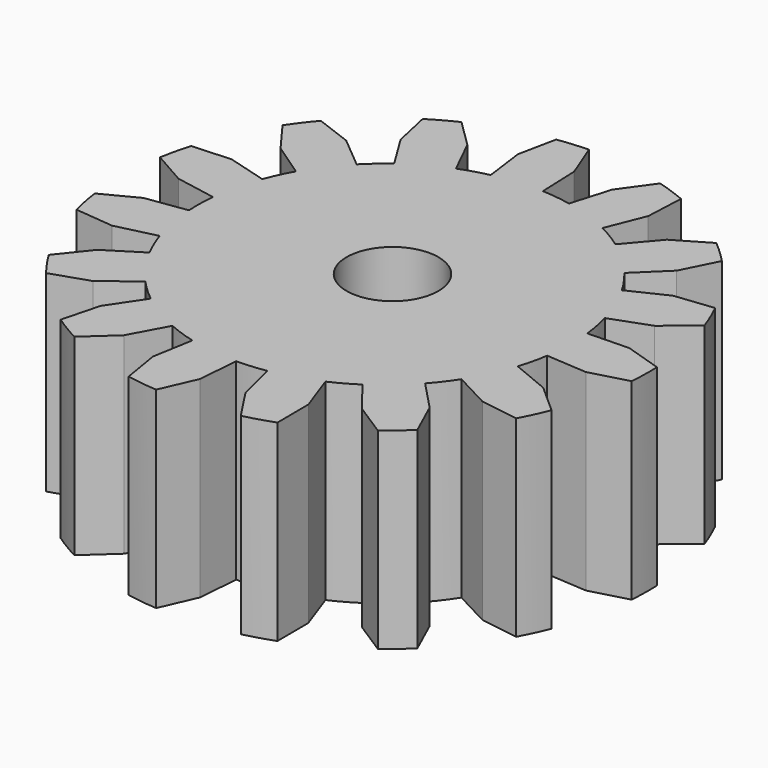
from build123d import *

# Parameters (mm, degrees)
F0_R     = 1.671135
F1_DEPTH = 7


with BuildPart() as f1:
    # F0 (on Top) → F1 (new body)
    with BuildSketch(Plane.XY):
        with BuildLine():
            ThreePointArc((5.710763, 3.295388), (5.423242, 3.744527), (5.101476, 4.169805))
            Line((5.101476, 4.169805), (6.17403, 5.210492))
            Line((6.17403, 5.210492), (6.80854, 6.475035))
            ThreePointArc((6.80854, 6.475035), (6.41041, 6.87043), (5.989907, 7.241943))
            Line((5.989907, 7.241943), (4.769408, 6.526365))
            Line((4.769408, 6.526365), (3.800837, 5.388265))
            ThreePointArc((3.800837, 5.388265), (3.355492, 5.681629), (2.888568, 5.939266))
            Line((2.888568, 5.939266), (3.445109, 7.326228))
            Line((3.445109, 7.326228), (3.510427, 8.739523))
            ThreePointArc((3.510427, 8.739523), (2.985895, 8.938801), (2.450639, 9.107161))
            Line((2.450639, 9.107161), (1.626709, 7.957026))
            Line((1.626709, 7.957026), (1.204783, 6.523367))
            ThreePointArc((1.204783, 6.523367), (0.678618, 6.61023), (0.147272, 6.655678))
            Line((0.147272, 6.655678), (0.091568, 8.149096))
            Line((0.091568, 8.149096), (-0.4236, 9.466773))
            ThreePointArc((-0.4236, 9.466773), (-0.983837, 9.435476), (-1.541296, 9.371572))
            Line((-1.541296, 9.371572), (-1.826192, 7.985749))
            Line((-1.826192, 7.985749), (-1.628518, 6.504423))
            ThreePointArc((-1.628518, 6.504423), (-2.144524, 6.369766), (-2.648419, 6.195167))
            Line((-2.648419, 6.195167), (-3.306734, 7.536816))
            Line((-3.306734, 7.536816), (-4.313311, 8.531036))
            ThreePointArc((-4.313311, 8.531036), (-4.812383, 8.274576), (-5.295656, 7.989458))
            Line((-5.295656, 7.989458), (-4.992256, 6.607568))
            Line((-4.992256, 6.607568), (-4.209163, 5.33471))
            ThreePointArc((-4.209163, 5.33471), (-4.625787, 5.001816), (-5.015102, 4.63736))
            Line((-5.015102, 4.63736), (-6.162201, 5.595256))
            Line((-6.162201, 5.595256), (-7.486141, 6.09411))
            ThreePointArc((-7.486141, 6.09411), (-7.837754, 5.656831), (-8.163277, 5.199798))
            Line((-8.163277, 5.199798), (-7.324043, 4.060783))
            Line((-7.324043, 4.060783), (-6.090934, 3.216482))
            ThreePointArc((-6.090934, 3.216482), (-6.336139, 2.742911), (-6.543558, 2.251615))
            Line((-6.543558, 2.251615), (-7.981096, 2.66013))
            Line((-7.981096, 2.66013), (-9.393477, 2.57736))
            ThreePointArc((-9.393477, 2.57736), (-9.536835, 2.034872), (-9.648323, 1.484949))
            Line((-9.648323, 1.484949), (-8.418365, 0.785755))
            Line((-8.418365, 0.785755), (-6.948456, 0.515998))
            ThreePointArc((-6.948456, 0.515998), (-6.979843, -0.016364), (-6.969502, -0.54955))
            Line((-6.969502, -0.54955), (-8.448917, -0.761053))
            Line((-8.448917, -0.761053), (-9.705525, -1.411133))
            ThreePointArc((-9.705525, -1.411133), (-9.615839, -1.96503), (-9.494015, -2.512756))
            Line((-9.494015, -2.512756), (-8.086004, -2.651232))
            Line((-8.086004, -2.651232), (-6.633455, -2.299801))
            ThreePointArc((-6.633455, -2.299801), (-6.445598, -2.798905), (-6.219285, -3.281788))
            Line((-6.219285, -3.281788), (-7.484771, -4.076738))
            Line((-7.484771, -4.076738), (-8.368329, -5.181725))
            ThreePointArc((-8.368329, -5.181725), (-8.061106, -5.651256), (-7.727034, -6.102078))
            Line((-7.727034, -6.102078), (-6.384429, -5.655893))
            Line((-6.384429, -5.655893), (-5.200399, -4.74404))
            ThreePointArc((-5.200399, -4.74404), (-4.82578, -5.123586), (-4.422625, -5.472672))
            Line((-4.422625, -5.472672), (-5.25537, -6.713614))
            Line((-5.25537, -6.713614), (-5.613101, -8.082445))
            ThreePointArc((-5.613101, -8.082445), (-5.141464, -8.386424), (-4.652908, -8.662392))
            Line((-4.652908, -8.662392), (-3.607857, -7.708695))
            Line((-3.607857, -7.708695), (-2.897076, -6.394087))
            ThreePointArc((-2.897076, -6.394087), (-2.400469, -6.588448), (-1.890183, -6.743376))
            Line((-1.890183, -6.743376), (-2.146196, -8.215741))
            Line((-2.146196, -8.215741), (-1.916246, -9.611733))
            ThreePointArc((-1.916246, -9.611733), (-1.361745, -9.6976), (-0.803181, -9.750995))
            Line((-0.803181, -9.750995), (-0.236382, -8.454689))
            Line((-0.236382, -8.454689), (-0.121751, -6.964634))
            ThreePointArc((-0.121751, -6.964634), (0.410976, -6.940203), (0.94016, -6.874185))
            Line((0.94016, -6.874185), (1.305145, -8.323388))
            Line((1.305145, -8.323388), (2.083016, -9.505161))
            ThreePointArc((2.083016, -9.505161), (2.624504, -9.358067), (3.156495, -9.179658))
            Line((3.156495, -9.179658), (3.147036, -7.764886))
            Line((3.147036, -7.764886), (2.645697, -6.357029))
            ThreePointArc((2.645697, -6.357029), (3.12243, -6.11803), (3.579012, -5.842481))
            Line((3.579012, -5.842481), (4.501887, -7.01794))
            Line((4.501887, -7.01794), (5.693177, -7.781155))
            ThreePointArc((5.693177, -7.781155), (6.128022, -7.426536), (6.541455, -7.047171))
            Line((6.541455, -7.047171), (5.957374, -5.758559))
            Line((5.957374, -5.758559), (4.926751, -4.676331))
            ThreePointArc((4.926751, -4.676331), (5.265059, -4.26409), (5.570092, -3.826655))
            Line((5.570092, -3.826655), (6.891282, -4.525123))
            Line((6.891282, -4.525123), (8.290007, -4.737813))
            ThreePointArc((8.290007, -4.737813), (8.543022, -4.236985), (8.766409, -3.722259))
            Line((8.766409, -3.722259), (7.708699, -2.782621))
            Line((7.708699, -2.782621), (6.326996, -2.213148))
            ThreePointArc((6.326996, -2.213148), (6.468383, -1.698945), (6.569123, -1.17526))
            Line((6.569123, -1.17526), (8.060183, -1.275967))
            Line((8.060183, -1.275967), (9.424491, -0.901356))
            ThreePointArc((9.424491, -0.901356), (9.451926, -0.340917), (9.446643, 0.220169))
            Line((9.446643, 0.220169), (8.098191, 0.648361))
            Line((8.098191, 0.648361), (6.604317, 0.606612))
            ThreePointArc((6.604317, 0.606612), (6.524335, 1.133866), (6.403364, 1.653251))
            Line((6.403364, 1.653251), (7.806476, 2.16772))
            Line((7.806476, 2.16772), (8.900465, 3.064858))
            ThreePointArc((8.900465, 3.064858), (8.697577, 3.588004), (8.464537, 4.098432))
            Line((8.464537, 4.098432), (7.058504, 3.941141))
            Line((7.058504, 3.941141), (5.710763, 3.295388))
        make_face()
        Circle(F0_R, mode=Mode.SUBTRACT)
    extrude(amount=F1_DEPTH)


solid = f1.part
